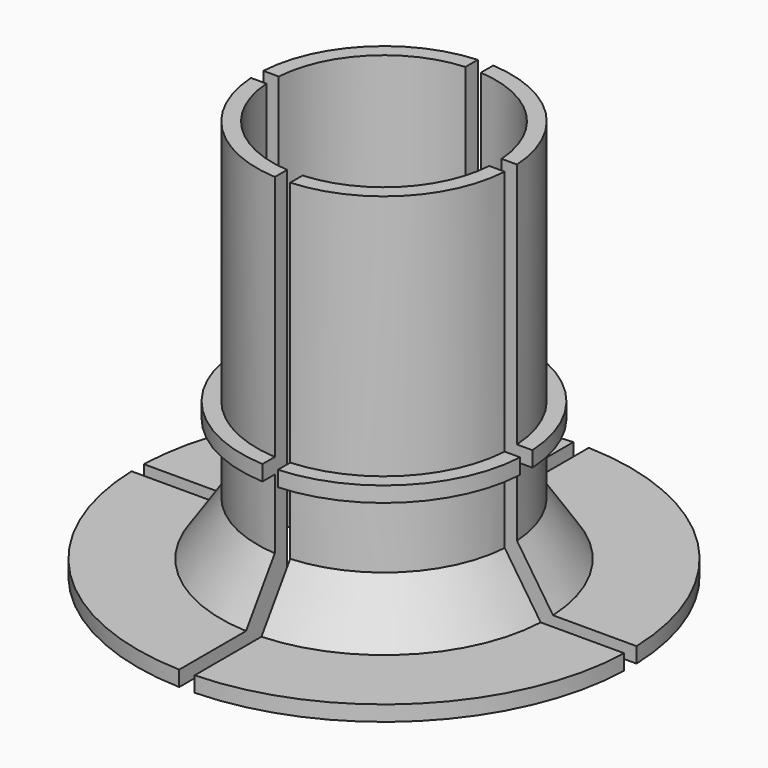
from build123d import *

# Parameters (mm, degrees)
EXTRUDE008_DEPTH = 26
EXTRUDE009_DEPTH = 1
EXTRUDE011_DEPTH = 1
BOX003_W         = 18
BOX003_H         = 17
BOX003_DEPTH     = 26
ARRAY_COUNT      = 4


with BuildPart() as extrude008:
    # Sketch010 → Extrude008 (new body)
    with BuildSketch(Plane.XY.offset(10)):
        with BuildLine():
            ThreePointArc((7.25, 0), (5.126524, 5.126524), (0, 7.25))
            Line((0, 8.25), (0, 7.25))
            ThreePointArc((8.25, 0), (5.833631, 5.833631), (0, 8.25))
            Line((7.25, 0), (8.25, 0))
        make_face()
    extrude(amount=EXTRUDE008_DEPTH)


with BuildPart() as extrude009:
    # Sketch011 → Extrude009 (new body)
    with BuildSketch(Plane.XY.offset(10)):
        with BuildLine():
            ThreePointArc((7.25, 0), (5.126524, 5.126524), (0, 7.25))
            Line((0, 16), (0, 7.25))
            ThreePointArc((16, 0), (11.313708, 11.313708), (0, 16))
            Line((7.25, 0), (16, 0))
        make_face()
    extrude(amount=EXTRUDE009_DEPTH)


with BuildPart() as extrude011:
    # Sketch013 → Extrude011 (new body)
    with BuildSketch(Plane.XY.offset(10)):
        with BuildLine():
            ThreePointArc((7.25, 0), (5.126524, 5.126524), (0, 7.25))
            Line((0, 9.25), (0, 7.25))
            ThreePointArc((9.25, 0), (6.540738, 6.540738), (0, 9.25))
            Line((9.25, 0), (7.25, 0))
        make_face()
    extrude(amount=EXTRUDE011_DEPTH)


with BuildPart() as extrude011_1:
    # Extrude011 placement: moved
    add(extrude011.part.moved(Location((0, 0, 9))))


with BuildPart() as fusion014:
    # Sweep: sweep along a path in Sketch014
    with BuildLine(Plane.XY) as sweep_path:
        ThreePointArc((7.25, 0), (5.126524, 5.126524), (0, 7.25))
    # Sketch012 → Sweep (sweep)
    with BuildSketch(Plane.XZ):
        Polygon((7.25, 10), (7.25, 16), (11.25, 10), align=None)
    sweep(path=sweep_path.line)

    # Fusion014: union Extrude008, Extrude009, Extrude011
    add(extrude008.part)
    add(extrude009.part)
    add(extrude011_1.part)


with BuildPart() as obj1:
    # Box003 → Box003 (new body)
    with BuildSketch(Plane(origin=(0.5, 0.5, 10), x_dir=(1, 0, 0), z_dir=(0, 0, 1))):
        with Locations((9, 8.5)):
            Rectangle(BOX003_W, BOX003_H)
    extrude(amount=BOX003_DEPTH)

    # Common: intersect Fusion014
    add(fusion014.part, mode=Mode.INTERSECT)


with BuildPart() as obj1_1:
    # Common placement: moved
    add(obj1.part.moved(Location((0, -11.5, 0))))


with BuildPart() as array_copy1:
    # Array: instance of obj1
    add(obj1_1.part.rotate(Axis((0, -11.5, 0), (0, 0, 1)), 1 * 360 / ARRAY_COUNT))


with BuildPart() as array_copy2:
    # Array: instance of obj1
    add(obj1_1.part.rotate(Axis((0, -11.5, 0), (0, 0, 1)), 2 * 360 / ARRAY_COUNT))


with BuildPart() as array_copy3:
    # Array: instance of obj1
    add(obj1_1.part.rotate(Axis((0, -11.5, 0), (0, 0, 1)), 3 * 360 / ARRAY_COUNT))


solid = Compound([obj1_1.part, array_copy1.part, array_copy2.part, array_copy3.part])
